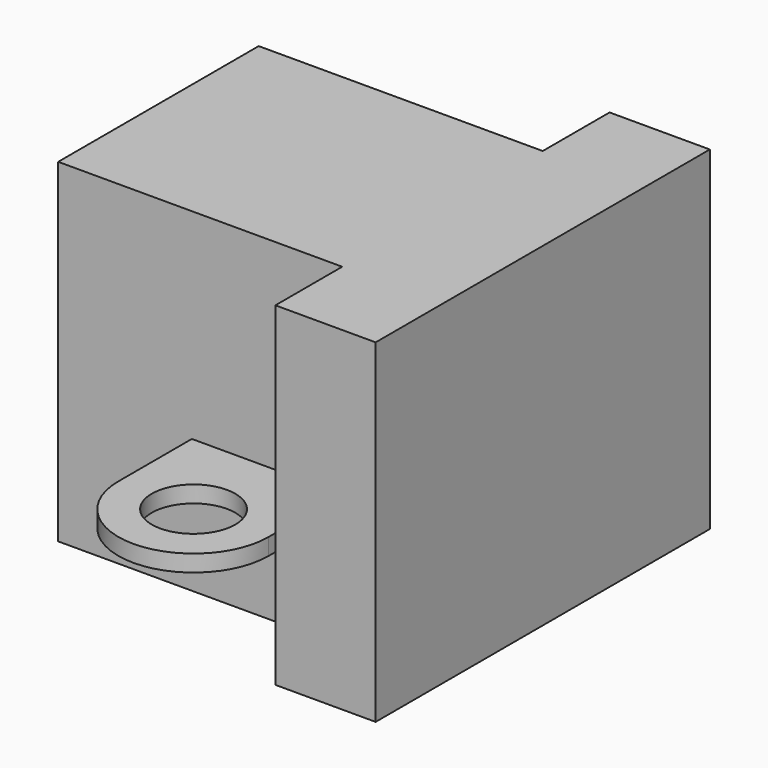
from build123d import *

# Parameters (mm, degrees)
SKETCH_W     = 23
SKETCH_H     = 15
PAD_DEPTH    = 20
SKETCH001_R  = 2.5
PAD001_DEPTH = 1
SKETCH002_W  = 6
SKETCH002_H  = 25
PAD002_DEPTH = 20


with BuildPart() as part:
    # Sketch → Pad (new body)
    with BuildSketch(Plane.XY):
        with Locations((11.5, 0)):
            Rectangle(SKETCH_W, SKETCH_H)
    extrude(amount=PAD_DEPTH)

    # Sketch001 (on Face5 of Pad) → Pad001 (join)
    with BuildSketch(Plane(origin=(0, 0, 7), x_dir=(1, 0, 0), z_dir=(0, 0, -1))):
        with BuildLine():
            ThreePointArc((8, -13), (12.5, -17.5), (17, -13))
            Line((17, 13), (17, -13))
            ThreePointArc((17, 13), (12.5, 17.5), (8, 13))
            Line((8, -13), (8, 13))
        make_face()
        with Locations((12.5, -13)):
            Circle(SKETCH001_R, mode=Mode.SUBTRACT)
        with Locations((12.5, 13)):
            Circle(SKETCH001_R, mode=Mode.SUBTRACT)
    extrude(amount=-PAD001_DEPTH)

    # Sketch002 (on Face3 of Pad001) → Pad002 (join)
    with BuildSketch(Plane(origin=(0, 0, 0), x_dir=(1, 0, 0), z_dir=(0, 0, -1))):
        with Locations((20, 0)):
            Rectangle(SKETCH002_W, SKETCH002_H)
    extrude(amount=-PAD002_DEPTH)


solid = part.part
